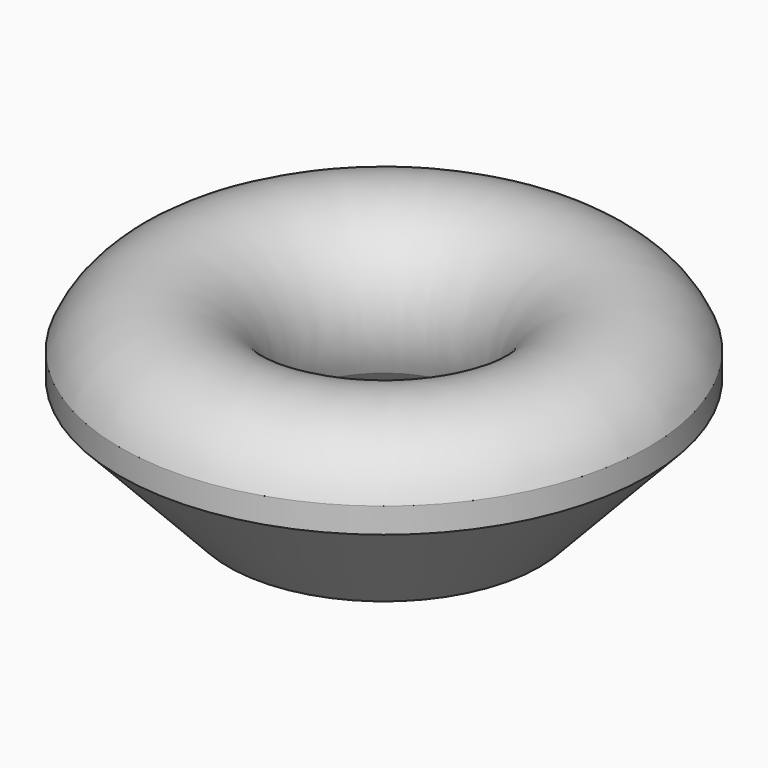
from build123d import *


with BuildPart() as f2:
    # F0 (on Front) → F2 (revolve)
    with BuildSketch(Plane.XZ):
        with BuildLine():
            ThreePointArc((89.437746, 20.227163), (49.055384, 36.649228), (33.393931, -4.034162))
            Line((33.393931, -4.034162), (52.668277, -27.342677))
            Line((52.668277, -27.342677), (89.437746, 11.681424))
            Line((89.437746, 11.681424), (89.437746, 20.227163))
        make_face()
    revolve(axis=Axis((0, 0, 3.361808), (0, 0, -1)))


solid = f2.part
